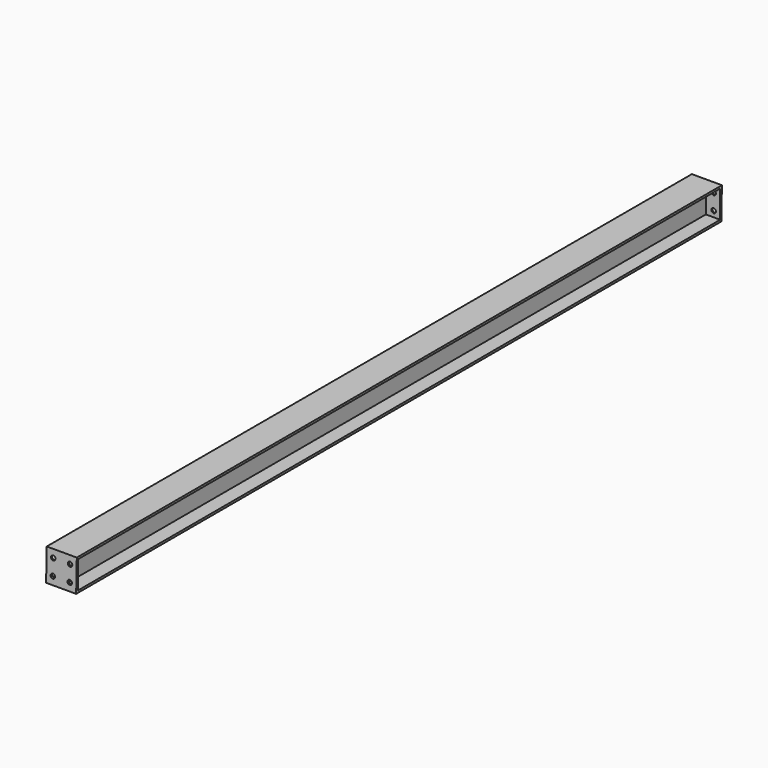
from build123d import *

# Parameters (mm, degrees)
F1_DEPTH = 3045
F2_W     = 114
F2_H     = 120
F2_R     = 8.5
F3_DEPTH = 8
F4_W     = 114
F4_H     = 120
F4_R     = 8.5
F5_DEPTH = 8
F7_DEPTH = 75


with BuildPart() as f1:
    # F0 (on Front) → F1 (new body)
    with BuildSketch(Plane.XZ):
        Polygon((57, 60), (0, 60), (-57, 60), (-57, 52), (-2.5, 52), (-2.5, 0), (-2.5, -52), (-57, -52), (-57, -60), (0, -60), (57, -60), (57, -52), (2.5, -52), (2.5, 0), (2.5, 52), (57, 52), align=None)
    extrude(amount=F1_DEPTH)

    # F2 (on face) → F3 (join)
    with BuildSketch(Plane.XZ.offset(3045)):
        Rectangle(F2_W, F2_H)
        with Locations((-32, -30)):
            Circle(F2_R, mode=Mode.SUBTRACT)
        with Locations((32, -30)):
            Circle(F2_R, mode=Mode.SUBTRACT)
        with Locations((-32, 30)):
            Circle(F2_R, mode=Mode.SUBTRACT)
        with Locations((32, 30)):
            Circle(F2_R, mode=Mode.SUBTRACT)
    extrude(amount=F3_DEPTH)

    # F4 (on face) → F5 (join)
    with BuildSketch(Plane(origin=(0, 0, 0), x_dir=(-1, 0, 0), z_dir=(0, 1, 0))):
        Rectangle(F4_W, F4_H)
        with Locations((-32, -30)):
            Circle(F4_R, mode=Mode.SUBTRACT)
        with Locations((32, -30)):
            Circle(F4_R, mode=Mode.SUBTRACT)
        with Locations((-32, 30)):
            Circle(F4_R, mode=Mode.SUBTRACT)
        with Locations((32, 30)):
            Circle(F4_R, mode=Mode.SUBTRACT)
    extrude(amount=F5_DEPTH)

    # F6 (on Right) → F7 (cut, symmetric)
    with BuildSketch(Plane.YZ):
        Polygon((32.1637574417, -60), (32.1637574417, 60), (8, 60), (4.8576894117, -60), align=None)
        Polygon((-3053, -60), (-3049.8576894117, 60), (-3064.5062300981, 60), (-3064.5062300981, -60), align=None)
    extrude(amount=F7_DEPTH, both=True, mode=Mode.SUBTRACT)


solid = f1.part
